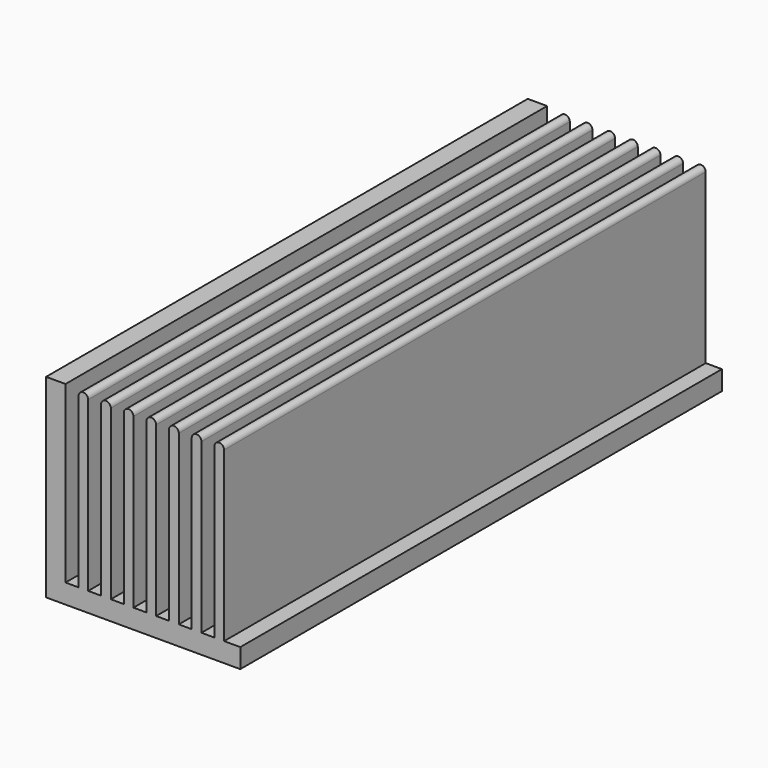
from build123d import *

# Parameters (mm, degrees)
F1_DEPTH = 93


with BuildPart() as f1:
    # F0 (on Front) → F1 (new body)
    with BuildSketch(Plane.XZ):
        Polygon((3, 30), (0, 30), (0, 0), (30, 0), (30, 3), (27.5, 3), (27.5, 29), (26, 29), (26, 3), (24, 3), (24, 29), (22.5, 29), (22.5, 3), (20.5, 3), (20.5, 29), (19, 29), (19, 3), (17, 3), (17, 29), (15.5, 29), (15.5, 3), (13.5, 3), (13.5, 29), (12, 29), (12, 3), (10, 3), (10, 29), (8.5, 29), (8.5, 3), (6.5, 3), (6.5, 29), (5, 29), (5, 3), (3, 3), align=None)
        with BuildLine():
            ThreePointArc((6.5, 29), (5.75, 29.75), (5, 29))
            Line((5, 29), (6.5, 29))
        make_face()
        with BuildLine():
            Line((26, 29), (27.5, 29))
            ThreePointArc((27.5, 29), (26.75, 29.75), (26, 29))
        make_face()
        with BuildLine():
            ThreePointArc((10, 29), (9.25, 29.75), (8.5, 29))
            Line((8.5, 29), (10, 29))
        make_face()
        with BuildLine():
            Line((22.5, 29), (24, 29))
            ThreePointArc((24, 29), (23.25, 29.75), (22.5, 29))
        make_face()
        with BuildLine():
            ThreePointArc((13.5, 29), (12.75, 29.75), (12, 29))
            Line((12, 29), (13.5, 29))
        make_face()
        with BuildLine():
            Line((19, 29), (20.5, 29))
            ThreePointArc((20.5, 29), (19.75, 29.75), (19, 29))
        make_face()
        with BuildLine():
            ThreePointArc((17, 29), (16.25, 29.75), (15.5, 29))
            Line((15.5, 29), (17, 29))
        make_face()
    extrude(amount=F1_DEPTH)


solid = f1.part
